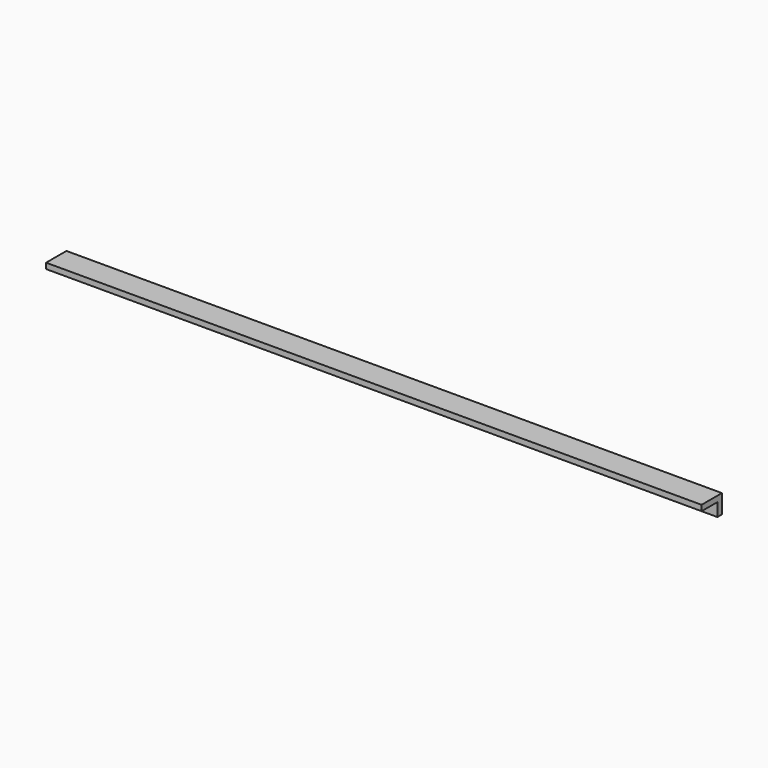
from build123d import *

# Parameters (mm, degrees)
F0_W     = 3480
F0_H     = 135
F1_DEPTH = 30
F2_W     = 30
F2_H     = 70
F3_DEPTH = 3480


with BuildPart() as f1:
    # F0 (on Top) → F1 (new body)
    with BuildSketch(Plane.XY):
        with Locations((-1650, -17.5)):
            Rectangle(F0_W, F0_H)
    extrude(amount=F1_DEPTH)

    # F2 (on face) → F3 (join)
    with BuildSketch(Plane.YZ.offset(90)):
        with Locations((35, -35)):
            Rectangle(F2_W, F2_H)
    extrude(amount=-F3_DEPTH)


solid = f1.part
